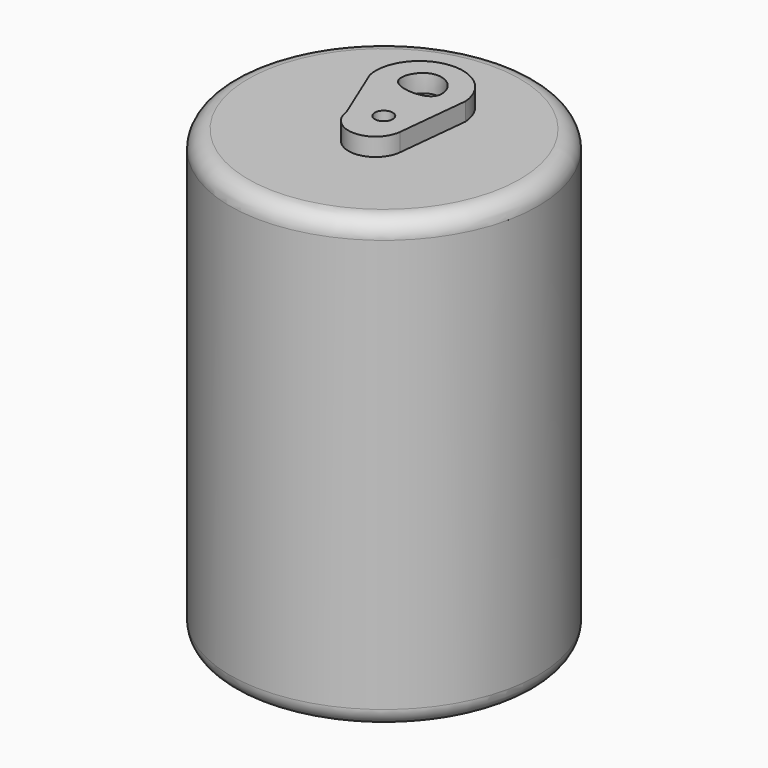
from build123d import *

# Parameters (mm, degrees)
F0_R     = 43.5266995613
F1_DEPTH = 127
F2_R     = 5.08
F4_DEPTH = 5.08
F6_DEPTH = 5.08
F8_D     = 5.08


with BuildPart() as f1:
    # F0 (on Top) → F1 (new body)
    with BuildSketch(Plane.XY):
        Circle(F0_R)
    extrude(amount=F1_DEPTH)

    # F2
    f2_edges = [f1.edges().sort_by_distance(p)[0] for p in [
        (43.5267, 0, 63.5),
        (-43.5267, 0, 0),
        (-43.5267, 0, 127),
    ]]
    fillet(f2_edges, radius=F2_R)

    # F3 (on face) → F4 (join)
    with BuildSketch(Plane.XY.offset(127)):
        with BuildLine():
            Line((9.7240488976, -6.4532333054), (11.8456594646, 14.0556711704))
            ThreePointArc((11.8456594646, 14.0556711704), (-2.1279540893, 25.2634606559), (-12.5528648496, 10.696454905))
            Line((-12.5528648496, 10.696454905), (-5.4808282293, -6.4532333054))
            ThreePointArc((-5.4808282293, -6.4532333054), (2.1216103341, -13.309783456), (9.7240488976, -6.4532333054))
        make_face()
    extrude(amount=F4_DEPTH)

    # F5 (on face) → F6 (cut)
    with BuildSketch(Plane.XY.offset(132.08)):
        with BuildLine():
            add(Edge.make_bspline(
                [(-5.6576291099, 12.0042935014), (-7.2494417271, 14.0385394216), (-4.3021102383, 20.9906666124), (4.4746239471, 19.4157133137), (7.4988739115, 8.9464331045), (-3.7704655796, 9.5926059252), (-5.6576291099, 12.0042935014)],
                knots=[0, 0, 0, 0, 0.2415357815, 0.4801991319, 0.7136487592, 1, 1, 1, 1], degree=3))
        make_face()
    extrude(amount=-F6_DEPTH, mode=Mode.SUBTRACT)

    # F8 (through all)
    with Locations(Plane.XY.offset(132.08)):
        with Locations((2.1216121968, -2.747733146)):
            Hole(F8_D / 2)


solid = f1.part
